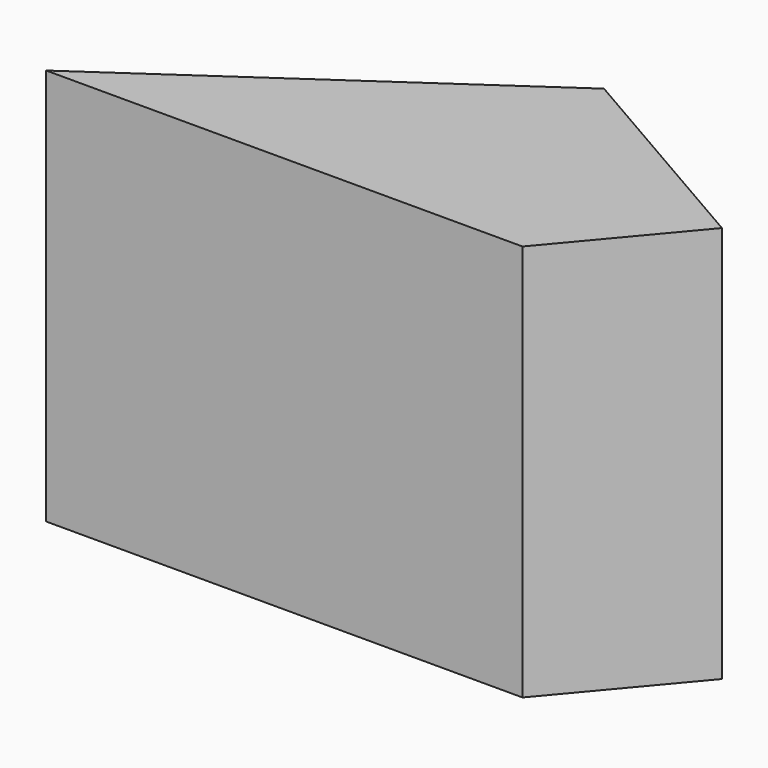
from build123d import *

# Parameters (mm, degrees)
F1_DEPTH = 25


with BuildPart() as f1:
    # F0 (on Top) → F1 (new body, symmetric)
    with BuildSketch(Plane.XY):
        Polygon((45.255653, 31.255814), (0, 0), (60, 0), (72.855752, 15.320889), align=None)
    extrude(amount=F1_DEPTH, both=True)


solid = f1.part
